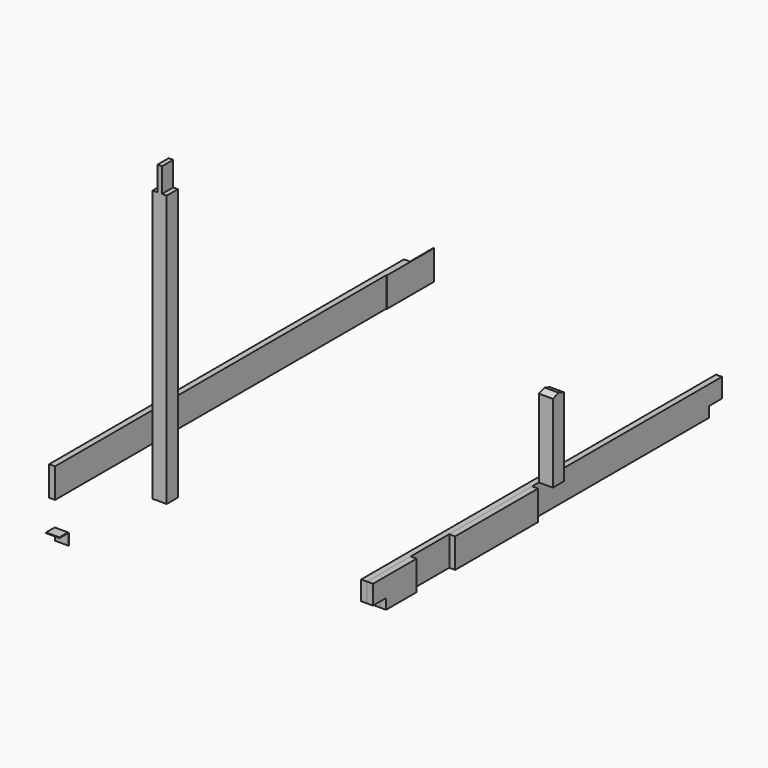
from build123d import *

# Parameters (mm, degrees)
F2_W      = 40
F2_H      = 3000
F3_DEPTH  = 200
F2_W_2    = 95
F2_H_2    = 95
F4_DEPTH  = 2000
F5_W      = 32
F5_H      = 164.1365289688
F6_DEPTH  = 2668.13823376
F8_DEPTH  = 90
F9_W      = 200
F9_H      = 200
F10_DEPTH = 4
F12_W     = 111
F12_H     = 70
F13_DEPTH = 2150.001
F15_DEPTH = 40
F14_W     = 700
F14_H     = 200
F16_DEPTH = 95


with BuildPart() as f3:
    # F2 (on Top) → F3 (new body)
    with BuildSketch(Plane.XY):
        with Locations((-56.5951354802, 1341.5122591515)):
            Rectangle(F2_W, F2_H)
    extrude(amount=F3_DEPTH)


with BuildPart() as f4:
    # F2 (on Top) → F4 (new body)
    with BuildSketch(Plane.XY):
        with Locations((405.4758989811, 220.8750253916)):
            Rectangle(F2_W_2, F2_H_2)
    extrude(amount=F4_DEPTH)

    # F5 (on face) → F6 (cut, through all)
    with BuildSketch(Plane.XZ.offset(-173.3750253916)):
        with Locations((373.9758989811, 1917.9317355156)):
            Rectangle(F5_W, F5_H)
        with Locations((436.9758989811, 1917.9317355156)):
            Rectangle(F5_W, F5_H)
    extrude(amount=-F6_DEPTH, mode=Mode.SUBTRACT)


with BuildPart() as f8:
    # F7 (on Right) → F8 (new body)
    with BuildSketch(Plane.YZ):
        with BuildLine():
            Line((-210.0196278095, -131.8551599979), (-280.0196278095, -131.8551599979))
            Line((-280.0196278095, -131.8551599979), (-280.0196278095, -136.8551599979))
            Line((-280.0196278095, -136.8551599979), (-210.0196278095, -136.8551599979))
            ThreePointArc((-210.0196278095, -136.8551599979), (-206.4840939036, -138.319626092), (-205.0196278095, -141.8551599979))
            Line((-205.0196278095, -141.8551599979), (-205.0196278095, -211.8551599979))
            Line((-205.0196278095, -211.8551599979), (-200.0196278095, -211.8551599979))
            Line((-200.0196278095, -211.8551599979), (-200.0196278095, -141.8551599979))
            ThreePointArc((-200.0196278095, -141.8551599979), (-202.9485599977, -134.7840921861), (-210.0196278095, -131.8551599979))
        make_face()
    extrude(amount=F8_DEPTH)


with BuildPart() as f10:
    # F9 (on face) → F10 (new body)
    with BuildSketch(Plane.YZ.offset(-36.5951354802)):
        with Locations((2741.5122591515, 100)):
            Rectangle(F9_W, F9_H)
        with Locations((2941.5122591515, 100)):
            Rectangle(F9_W, F9_H)
    extrude(amount=F10_DEPTH)


with BuildPart() as f11_1:
    # F11: copy of F3
    add(f3.part.moved(Location((2110, 0, 0))))

    # F12 (on face) → F13 (cut, through all)
    with BuildSketch(Plane.YZ.offset(2073.4048645198)):
        with Locations((-102.9877408485, 35)):
            Rectangle(F12_W, F12_H)
        with Locations((2786.0122591515, 35)):
            Rectangle(F12_W, F12_H)
    extrude(amount=-F13_DEPTH, mode=Mode.SUBTRACT)


with BuildPart() as f15:
    # F14 (on face) → F15 (new body)
    with BuildSketch(Plane.YZ.offset(2073.4048645198)):
        Polygon((209.7060382366, 200), (-158.4877408485, 200), (-158.4877408485, 186.4807903767), (-158.4877408485, 70), (-47.4877408485, 70), (-47.4877408485, 0), (209.7060382366, 0), align=None)
    extrude(amount=F15_DEPTH)


with BuildPart() as f15b:
    # F14 (on face) → F15, piece 2 (new body)
    with BuildSketch(Plane.YZ.offset(2073.4048645198)):
        with Locations((886.6408228874, 100)):
            Rectangle(F14_W, F14_H)
    extrude(amount=F15_DEPTH)


with BuildPart() as f16:
    # F12 (on face) → F16 (new body)
    with BuildSketch(Plane.YZ.offset(2073.4048645198)):
        Polygon((1294.0122591515, 728.6667652717), (1294.0122591515, 200), (1389.0122591515, 200), (1389.0122591515, 728.6667652717), (1341.5122591515, 745.9553513993), align=None)
    extrude(amount=F16_DEPTH)


solid = Compound([f3.part, f4.part, f8.part, f10.part, f11_1.part, f15.part, f15b.part, f16.part])
